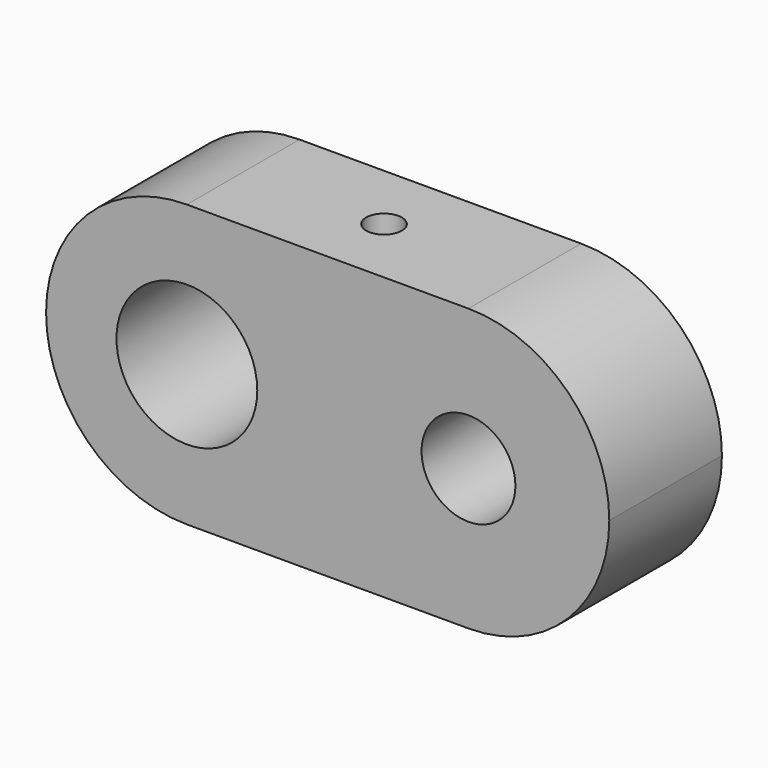
from build123d import *

# Parameters (mm, degrees)
F0_R     = 9.525
F0_R_2   = 6.35
F1_DEPTH = 19.05
F2_R     = 2.413
F3_DEPTH = 19.05


with BuildPart() as f1:
    # F0 (on Front) → F1 (new body)
    with BuildSketch(Plane.XZ):
        with BuildLine():
            ThreePointArc((-37.503484, 19.858182), (-31.923868, 6.387798), (-18.453484, 0.808182))
            Line((-18.453484, 0.808182), (19.646516, 0.808182))
            ThreePointArc((19.646516, 0.808182), (33.1169, 6.387798), (38.696516, 19.858182))
            ThreePointArc((38.696516, 19.858182), (33.1169, 33.328566), (19.646516, 38.908182))
            Line((19.646516, 38.908182), (-18.453484, 38.908182))
            ThreePointArc((-18.453484, 38.908182), (-31.923868, 33.328566), (-37.503484, 19.858182))
        make_face()
        with Locations((-18.453484, 19.858182)):
            Circle(F0_R, mode=Mode.SUBTRACT)
        with Locations((19.646516, 19.858182)):
            Circle(F0_R_2, mode=Mode.SUBTRACT)
    extrude(amount=-F1_DEPTH)

    # F2 (on face) → F3 (cut)
    with BuildSketch(Plane.XY.offset(38.908182)):
        with Locations((0.596516, 9.525)):
            Circle(F2_R)
    extrude(amount=-F3_DEPTH, mode=Mode.SUBTRACT)


solid = f1.part
